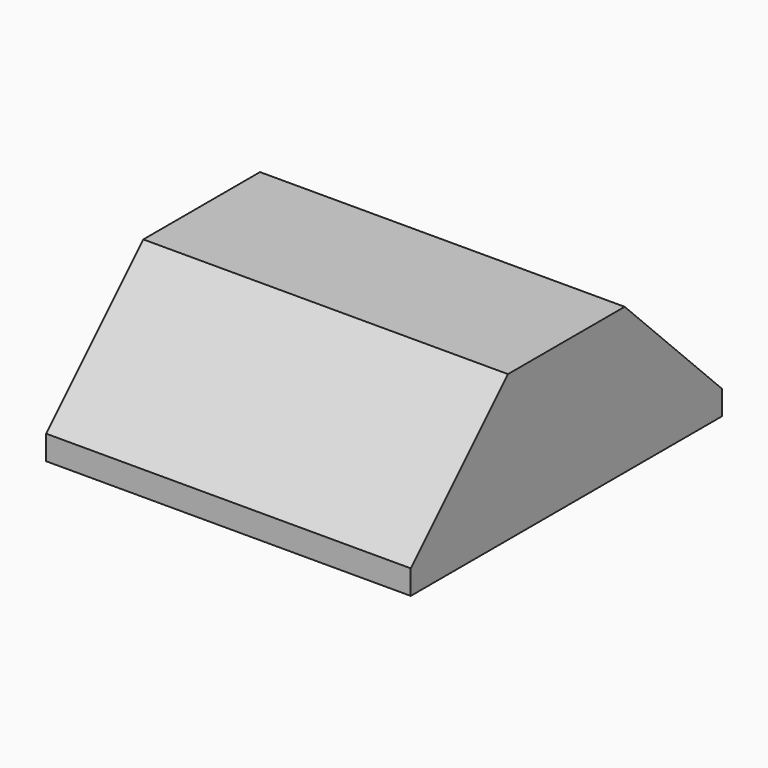
from build123d import *

# Parameters (mm, degrees)
SKETCH024_W             = 3.2
SKETCH024_H             = 3
PAD023_DEPTH            = 1.2
CHAMFER009_SIZE         = 1
SKETCH025_W             = 2.017963
SKETCH025_H             = 1.017
POCKET001_DEPTH         = 5
BODY023_PLACEMENT_ANGLE = 90


with BuildPart() as part:
    # Sketch024 → Pad023 (new body)
    with BuildSketch(Plane.XY):
        Rectangle(SKETCH024_W, SKETCH024_H)
    extrude(amount=PAD023_DEPTH)

    # Chamfer009
    chamfer009_edges = [part.edges().sort_by_distance(p)[0] for p in [
        (-1.6, 0, 1.2),
        (1.6, 0, 1.2),
    ]]
    chamfer(chamfer009_edges, length=CHAMFER009_SIZE)

    # Sketch025 (on Face5 of Chamfer009) → Pocket001 (cut)
    with BuildSketch(Plane.XY.offset(1.2)):
        with Locations((-1.75199, 0)):
            Rectangle(SKETCH025_W, SKETCH025_H)
    extrude(amount=-POCKET001_DEPTH, mode=Mode.SUBTRACT)


with BuildPart() as part_1:
    # Body023 placement: moved
    add(part.part.moved(Location((-0.93, -0.85, 0))).rotate(Axis((-0.93, -0.85, 0), (0, 0, -1)), BODY023_PLACEMENT_ANGLE))


solid = part_1.part
